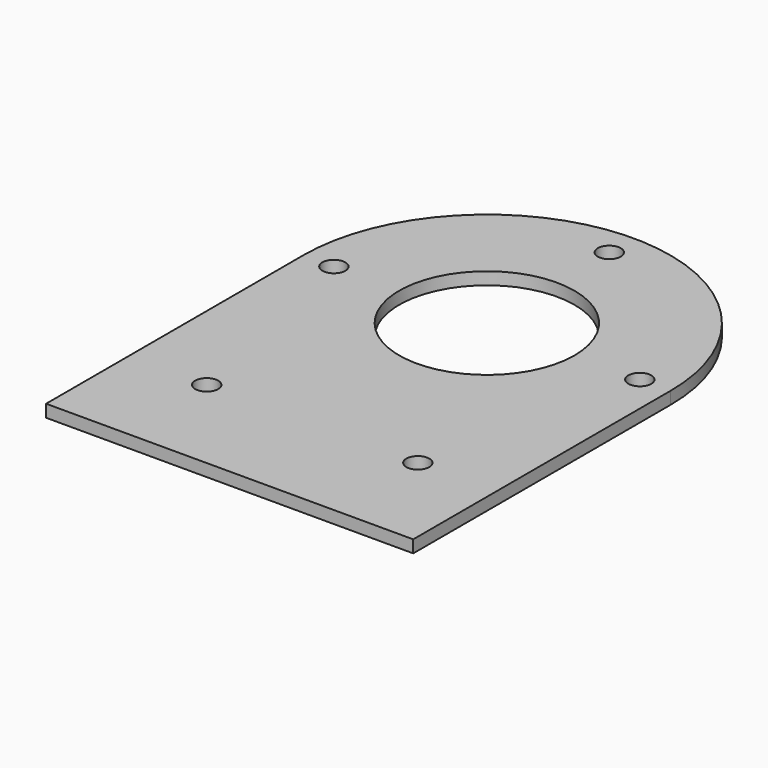
from build123d import *

# Parameters (mm, degrees)
PAD_DEPTH       = 2.7
SKETCH001_R     = 2.5
POCKET_DEPTH    = 5
SKETCH002_R     = 2.5
POCKET001_DEPTH = 5
SKETCH003_R     = 19.1
POCKET002_DEPTH = 5


with BuildPart() as part:
    # Sketch → Pad (new body)
    with BuildSketch(Plane.XY):
        with BuildLine():
            Line((40, 70.05), (40, 0))
            Line((40, 0), (-40, 0))
            Line((-40, 0), (-40, 70.05))
            ThreePointArc((40, 70.05), (0, 110.05), (-40, 70.05))
        make_face()
    extrude(amount=PAD_DEPTH)

    # Sketch001 → Pocket (cut)
    with BuildSketch(Plane.XY.offset(2.7)):
        with Locations((33.333, 70.05)):
            Circle(SKETCH001_R)
        with Locations((23, 22.5)):
            Circle(SKETCH001_R)
    pocket = extrude(amount=-POCKET_DEPTH, mode=Mode.SUBTRACT)

    # Mirrored: Pocket across Sketch001 V_Axis
    add(pocket.mirror(Plane(origin=(0, 0, 2.7), x_dir=(0, 0, 1), z_dir=(1, 0, 0))), mode=Mode.SUBTRACT)

    # Sketch002 → Pocket001 (cut)
    with BuildSketch(Plane.XY.offset(2.7)):
        with Locations((0, 103.4)):
            Circle(SKETCH002_R)
    extrude(amount=-POCKET001_DEPTH, mode=Mode.SUBTRACT)

    # Sketch003 → Pocket002 (cut)
    with BuildSketch(Plane.XY.offset(2.7)):
        with Locations((0, 70.05)):
            Circle(SKETCH003_R)
    extrude(amount=-POCKET002_DEPTH, mode=Mode.SUBTRACT)


solid = part.part
